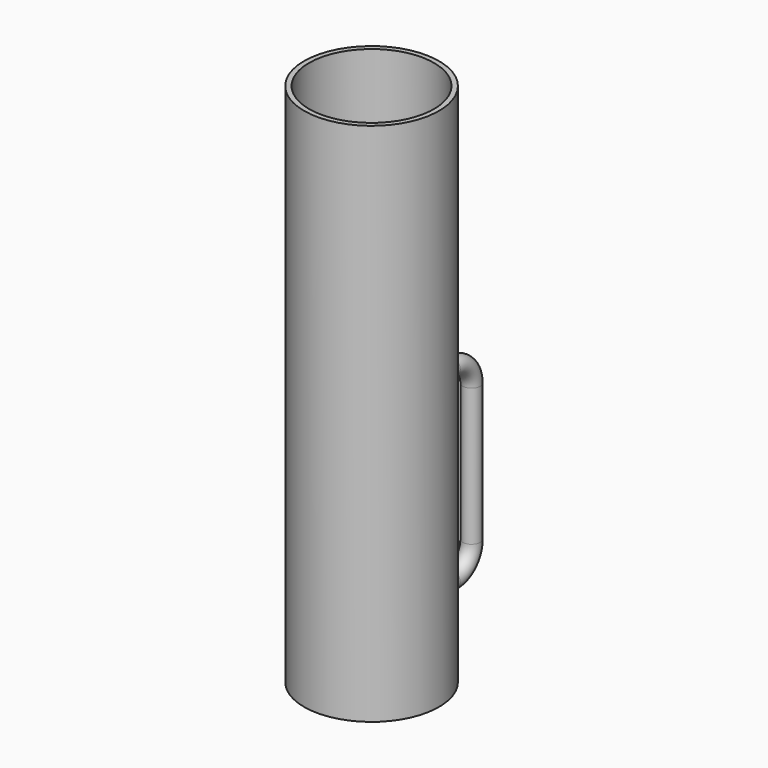
from build123d import *

# Parameters (mm, degrees)
F3_R      = 3.5
F5_R      = 2.5
F7_R      = 25
F8_DEPTH  = 138
F9_R      = 25
F10_DEPTH = 70


with BuildPart() as f1:
    # F0 (on Front) → F1 (revolve)
    with BuildSketch(Plane.XZ):
        Polygon((-25, 210), (-27, 210), (-27, 0), (-25, 0), (-25, 70), (-12.5, 70), (-12.5, 71), (-13.5, 72), (-25, 72), align=None)
    revolve(axis=Axis((0, 0, 105), (0, 0, 1)))

    # F4: sweep along a path in F2
    with BuildLine(Plane.YZ) as f4_path:
        Line((0, 20), (40, 20))
        ThreePointArc((40, 20), (47.0710678119, 22.9289321881), (50, 30))
        Line((50, 30), (50, 85))
        ThreePointArc((50, 85), (47.0710678119, 92.0710678119), (40, 95))
        Line((40, 95), (0, 95))
    # F3 (on Front) → F4 (sweep)
    with BuildSketch(Plane.XZ):
        with Locations((0, 20)):
            Circle(F3_R)
    sweep(path=f4_path.line)

    # F6: sweep along a path in F2
    with BuildLine(Plane.YZ) as f6_path:
        Line((0, 20), (40, 20))
        ThreePointArc((40, 20), (47.0710678119, 22.9289321881), (50, 30))
        Line((50, 30), (50, 85))
        ThreePointArc((50, 85), (47.0710678119, 92.0710678119), (40, 95))
        Line((40, 95), (0, 95))
    # F5 (on Front) → F6 (sweep, cut)
    with BuildSketch(Plane.XZ):
        with Locations((0, 20)):
            Circle(F5_R)
    sweep(path=f6_path.line, mode=Mode.SUBTRACT)

    # F7 (on face) → F8 (cut, through all)
    with BuildSketch(Plane.XY.offset(210)):
        Circle(F7_R)
    extrude(amount=-F8_DEPTH, mode=Mode.SUBTRACT)

    # F9 (on face) → F10 (cut, through all)
    with BuildSketch(Plane(origin=(0, 0, 0), x_dir=(1, 0, 0), z_dir=(0, 0, -1))):
        Circle(F9_R)
    extrude(amount=-F10_DEPTH, mode=Mode.SUBTRACT)


solid = f1.part
